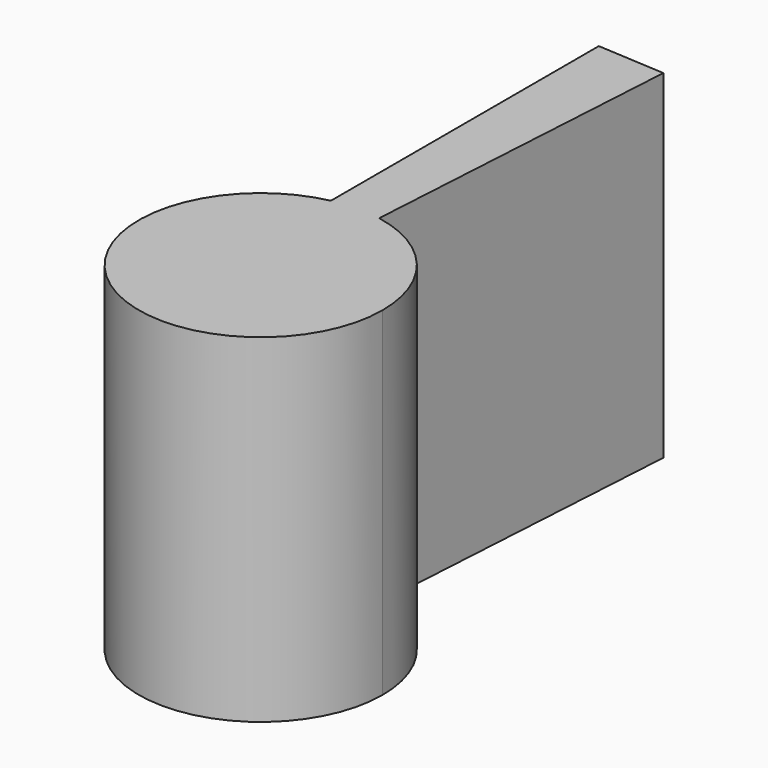
from build123d import *

# Parameters (mm, degrees)
F1_DEPTH = 25


with BuildPart() as f1:
    # F0 (on Top) → F1 (new body)
    with BuildSketch(Plane.XY):
        with BuildLine():
            ThreePointArc((-1.865561, 8.804526), (-5.666125, -6.992498), (9, 0))
            ThreePointArc((9, 0), (6.929372, 5.743153), (1.670266, 8.843654))
            ThreePointArc((1.670266, 8.843654), (-0.099588, 8.999449), (-1.865561, 8.804526))
        make_face()
        with BuildLine():
            ThreePointArc((-1.865561, 8.804526), (-0.099588, 8.999449), (1.670266, 8.843654))
            Line((1.670266, 8.843654), (3.141358, 33.224616))
            Line((3.141358, 33.224616), (-1.865561, 33.526722))
            Line((-1.865561, 33.526722), (-1.865561, 8.804526))
        make_face()
        with BuildLine():
            ThreePointArc((-1.865561, 8.804526), (-5.666125, -6.992498), (9, 0))
            ThreePointArc((9, 0), (6.929372, 5.743153), (1.670266, 8.843654))
            ThreePointArc((1.670266, 8.843654), (-0.099588, 8.999449), (-1.865561, 8.804526))
        make_face()
    extrude(amount=F1_DEPTH)


solid = f1.part
